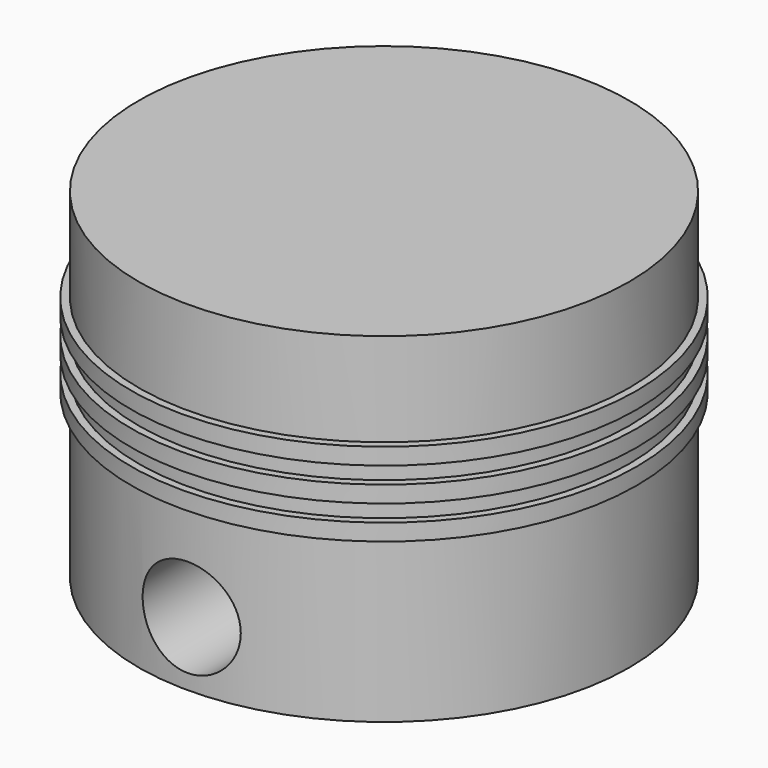
from build123d import *

# Parameters (mm, degrees)
SKETCH010_R          = 32.5
PAD005_DEPTH         = 45
SKETCH011_R          = 6.5
POCKET006_DEPTH      = 32.501
POCKET006_DEPTH_BACK = 32.501
SKETCH013_W          = 1
SKETCH013_H          = 2.20711
SKETCH013_H_2        = 2.207111


with BuildPart() as part:
    # Sketch010 → Pad005 (new body)
    with BuildSketch(Plane.XY):
        Circle(SKETCH010_R)
    extrude(amount=PAD005_DEPTH)

    # Sketch011 → Pocket006 (cut, two sides)
    with BuildSketch(Plane.XZ) as pocket006_sk:
        with Locations((0, 8.5)):
            Circle(SKETCH011_R)
    extrude(amount=-POCKET006_DEPTH, mode=Mode.SUBTRACT)
    extrude(pocket006_sk.sketch, amount=POCKET006_DEPTH_BACK, mode=Mode.SUBTRACT)

    # Sketch013 → Revolution (revolve)
    with BuildSketch(Plane.XZ):
        Polygon((32.492016, 21.565427), (33.5, 21.565427), (33.5, 23.772537), (32.487373, 23.772537), align=None)
        with Locations((33, 27.103555)):
            Rectangle(SKETCH013_W, SKETCH013_H)
        with Locations((33, 31.523173)):
            Rectangle(SKETCH013_W, SKETCH013_H_2)
    revolve(axis=Axis((0, 0, 0), (0, 0, 1)))


with BuildPart() as part_1:
    # Body003 placement: moved
    add(part.part.moved(Location((0, -7, 140.58))))


solid = part_1.part
